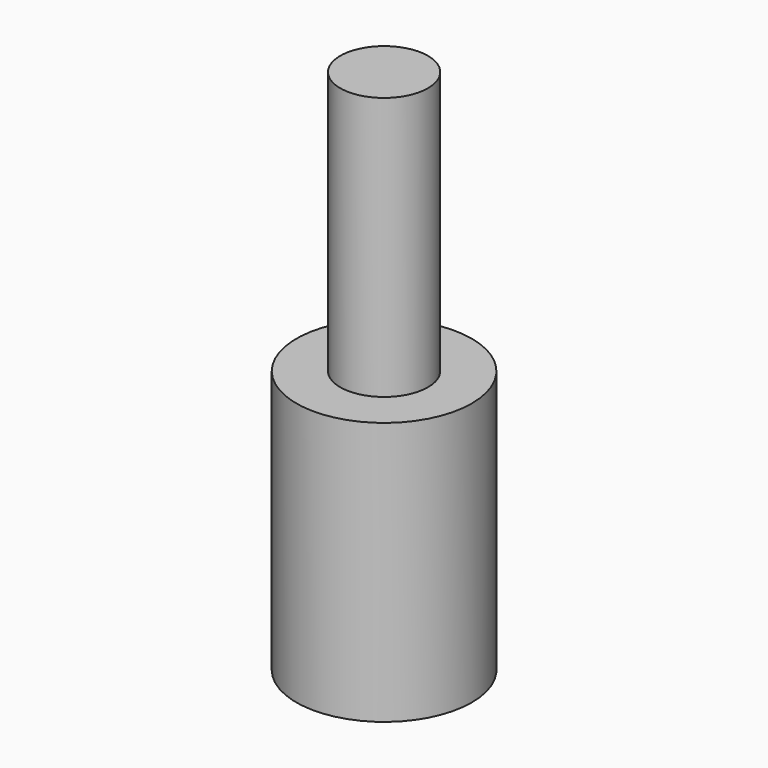
from build123d import *

# Parameters (mm, degrees)
F0_R     = 6.35
F2_DEPTH = 76.2
F1_R     = 12.7
F3_DEPTH = 38.1


with BuildPart() as f2:
    # F0 (on Top) → F2 (new body)
    with BuildSketch(Plane.XY):
        Circle(F0_R)
        Circle(F0_R)
    extrude(amount=F2_DEPTH)

    # F1 (on Top) → F3 (join)
    with BuildSketch(Plane.XY):
        Circle(F1_R)
    extrude(amount=F3_DEPTH)


solid = f2.part
